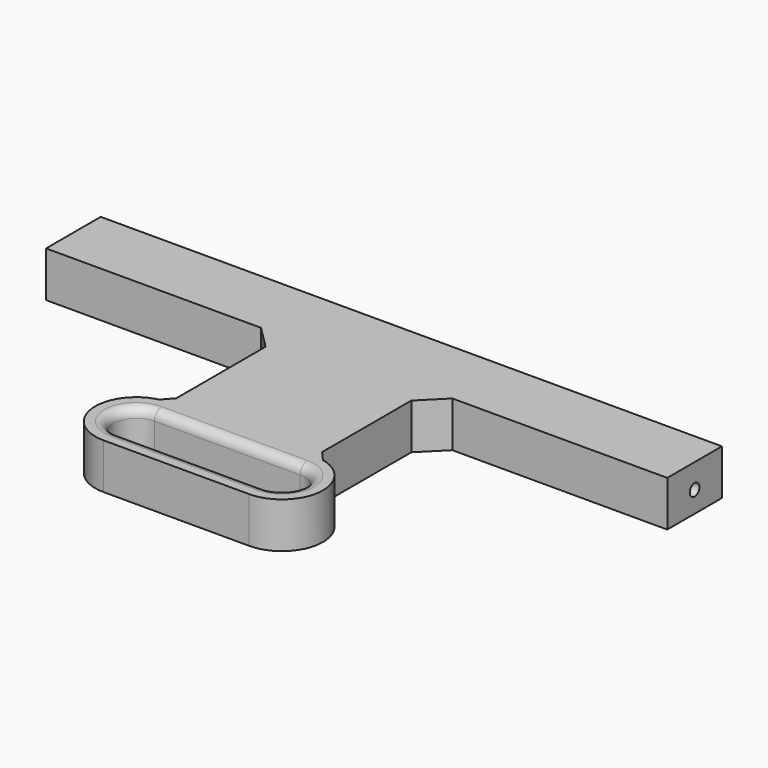
from build123d import *

# Parameters (mm, degrees)
PAD_DEPTH       = 10
SKETCH001_R     = 1.325
HOLE_DEPTH      = 15.20386
HOLE_TIPS_R     = 1.325
SKETCH002_R     = 1.325
HOLE001_DEPTH   = 15.20386
HOLE001_TIPS_R  = 1.325
FILLET_R        = 2
CHAMFER_SIZE    = 2
CHAMFER001_SIZE = 5


with BuildPart() as part:
    # Sketch → Pad (new body)
    with BuildSketch(Plane.XY):
        with BuildLine():
            Line((0, 15), (136.4, 15))
            Line((136.4, 15), (136.4, 0))
            Line((136.4, 0), (84.2, 0))
            Line((84.2, 0), (84.2, -31.5))
            ThreePointArc((84.2, -49.5), (93.2, -40.5), (84.2, -31.5))
            Line((52.2, -49.5), (84.2, -49.5))
            ThreePointArc((52.2, -31.5), (43.2, -40.5), (52.2, -49.5))
            Line((52.2, 0), (52.2, -31.5))
            Line((52.2, 0), (0, 0))
            Line((0, 0), (0, 15))
        make_face()
        with BuildLine():
            ThreePointArc((52.2, -35.5), (47.2, -40.5), (52.2, -45.5))
            Line((52.2, -45.5), (84.2, -45.5))
            ThreePointArc((84.2, -45.5), (89.2, -40.5), (84.2, -35.5))
            Line((52.2, -35.5), (84.2, -35.5))
        make_face(mode=Mode.SUBTRACT)
    extrude(amount=PAD_DEPTH)

    # Sketch001 (on Face2 of Pad) → Hole (cut)
    with BuildSketch(Plane(origin=(0, 0, 0), x_dir=(0, -1, 0), z_dir=(-1, 0, 0))):
        with Locations((-7.5, 4.65)):
            Circle(SKETCH001_R)
    extrude(amount=-HOLE_DEPTH, mode=Mode.SUBTRACT)

    # Hole tips → Hole tip 1 section 0
    with BuildSketch(Plane(origin=(15.20386, 0, 0), x_dir=(0, -1, 0), z_dir=(-1, 0, 0)), mode=Mode.PRIVATE) as hole_tip_1_s0:
        with Locations((-7.5, 4.65)):
            Circle(HOLE_TIPS_R)
    loft([hole_tip_1_s0.sketch, Vertex(16, 7.5, 4.65)], mode=Mode.SUBTRACT)

    # Sketch002 (on Face4 of Pad) → Hole001 (cut)
    with BuildSketch(Plane.YZ.offset(136.4)):
        with Locations((7.5, 4.65)):
            Circle(SKETCH002_R)
    extrude(amount=-HOLE001_DEPTH, mode=Mode.SUBTRACT)

    # Hole001 tips → Hole001 tip 1 section 0
    with BuildSketch(Plane.YZ.offset(121.19614), mode=Mode.PRIVATE) as hole001_tip_1_s0:
        with Locations((7.5, 4.65)):
            Circle(HOLE001_TIPS_R)
    loft([hole001_tip_1_s0.sketch, Vertex(120.4, 7.5, 4.65)], mode=Mode.SUBTRACT)

    # Fillet
    fillet_edges = [part.edges().sort_by_distance(p)[0] for p in [
        (68.2, -35.5, 10),
        (89.2, -40.5, 10),
        (47.2, -40.5, 10),
        (68.2, -45.5, 10),
        (68.2, -35.5, 0),
        (89.2, -40.5, 0),
        (68.2, -45.5, 0),
        (47.2, -40.5, 0),
    ]]
    fillet(fillet_edges, radius=FILLET_R)

    # Chamfer
    chamfer_edges = [part.edges().sort_by_distance(p)[0] for p in [
        (52.2, -31.5, 5),
        (84.2, -31.5, 5),
    ]]
    chamfer(chamfer_edges, length=CHAMFER_SIZE)

    # Chamfer001
    chamfer001_edges = [part.edges().sort_by_distance(p)[0] for p in [
        (52.2, 0, 5),
        (84.2, 0, 5),
    ]]
    chamfer(chamfer001_edges, length=CHAMFER001_SIZE)


solid = part.part
